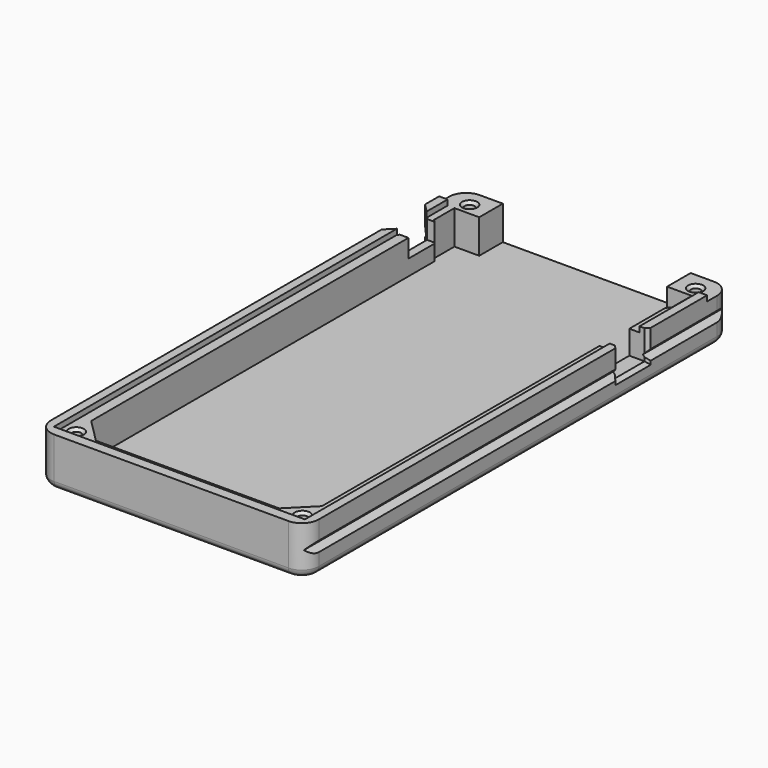
from build123d import *

# Parameters (mm, degrees)
SKETCH_W        = 79.03
SKETCH_H        = 156.85
PAD_DEPTH       = 14
POCKET_DEPTH    = 11.6
PAD001_DEPTH    = 10
SKETCH003_R     = 1.45
POCKET001_DEPTH = 12
FILLET_R        = 5
CHAMFER_SIZE    = 1
FILLET001_R     = 2
CHAMFER001_SIZE = 0.8
SKETCH004_W     = 12.65
SKETCH004_H     = 11
POCKET002_DEPTH = 8.6
SKETCH005_W     = 11.08
SKETCH005_H     = 10
POCKET003_DEPTH = 7
SKETCH006_R     = 1.45
POCKET004_DEPTH = 12
SKETCH007_W     = 92.15
SKETCH007_H     = 16.7
POCKET005_DEPTH = 1.6
CHAMFER002_SIZE = 0.8
CHAMFER003_SIZE = 3
CHAMFER004_SIZE = 1
POCKET006_DEPTH = 509.235242
SKETCH009_R     = 2.2
POCKET007_DEPTH = 2.2
CHAMFER005_SIZE = 0.5


with BuildPart() as part:
    # Sketch → Pad (new body)
    with BuildSketch(Plane.XY):
        with Locations((0, -69.725)):
            Rectangle(SKETCH_W, SKETCH_H)
    extrude(amount=PAD_DEPTH)

    # Sketch001 (on Face6 of Pad) → Pocket (cut)
    with BuildSketch(Plane.XY.offset(14)):
        Polygon((-37.015, -145.15), (37.015, -145.15), (37.015, 0), (27.7, 0), (27.7, 8.7), (-27.7, 8.7), (-27.7, 0), (-37.015, 0), align=None)
    extrude(amount=-POCKET_DEPTH, mode=Mode.SUBTRACT)

    # Sketch002 (on Face6 of Pocket) → Pad001 (join)
    with BuildSketch(Plane.XY.offset(2.4)):
        Polygon((-35.015, 0), (-35.015, -7.5), (-34.015, -8.5), (-34.015, -135.15), (-27.015, -142.15), (27.015, -142.15), (34.015, -135.15), (34.015, -8.5), (35.015, -7.5), (35.015, 0), (37.015, 0), (37.015, -145.15), (-37.015, -145.15), (-37.015, 0), align=None)
    extrude(amount=PAD001_DEPTH)

    # Sketch003 (on Face24 of Pad001) → Pocket001 (cut)
    with BuildSketch(Plane.XY.offset(12.4)):
        with Locations((-33.34, -141.47)):
            Circle(SKETCH003_R)
        with Locations((33.34, -141.47)):
            Circle(SKETCH003_R)
    extrude(amount=-POCKET001_DEPTH, mode=Mode.SUBTRACT)

    # Fillet
    fillet_edges = [part.edges().sort_by_distance(p)[0] for p in [
        (39.515, 8.7, 7),
        (39.515, -148.15, 7),
        (-39.515, 8.7, 7),
        (-39.515, -148.15, 7),
    ]]
    fillet(fillet_edges, radius=FILLET_R)

    # Chamfer
    chamfer_edges = [part.edges().sort_by_distance(p)[0] for p in [
        (-38.050534, 7.235534, 0),
    ]]
    chamfer(chamfer_edges, length=CHAMFER_SIZE)

    # Fillet001
    fillet001_edges = [part.edges().sort_by_distance(p)[0] for p in [
        (-38.050534, 7.235534, 1),
    ]]
    fillet(fillet001_edges, radius=FILLET001_R)

    # Chamfer001
    chamfer001_edges = [part.edges().sort_by_distance(p)[0] for p in [
        (-34.79, -141.47, 12.4),
        (31.89, -141.47, 12.4),
    ]]
    chamfer(chamfer001_edges, length=CHAMFER001_SIZE)

    # Sketch004 (on Face20 of Chamfer001) → Pocket002 (cut)
    with BuildSketch(Plane.XY.offset(14)):
        with Locations((37.485, -27.31)):
            Rectangle(SKETCH004_W, SKETCH004_H)
    extrude(amount=-POCKET002_DEPTH, mode=Mode.SUBTRACT)

    # Sketch005 (on Face16 of Pocket002) → Pocket003 (cut)
    with BuildSketch(Plane.XY.offset(14)):
        with Locations((-36.33, -13.2)):
            Rectangle(SKETCH005_W, SKETCH005_H)
    extrude(amount=-POCKET003_DEPTH, mode=Mode.SUBTRACT)

    # Sketch006 → Pocket004 (cut)
    with BuildSketch(Plane.XY.offset(14)):
        with Locations((-33.34, 3.5)):
            Circle(SKETCH006_R)
        with Locations((33.34, 3.5)):
            Circle(SKETCH006_R)
    extrude(amount=-POCKET004_DEPTH, mode=Mode.SUBTRACT)

    # Sketch007 (on Face7 of Pocket004) → Pocket005 (cut)
    with BuildSketch(Plane.XY.offset(14)):
        with Locations((0, 8.35)):
            Rectangle(SKETCH007_W, SKETCH007_H)
    extrude(amount=-POCKET005_DEPTH, mode=Mode.SUBTRACT)

    # Chamfer002
    chamfer002_edges = [part.edges().sort_by_distance(p)[0] for p in [
        (31.89, 3.5, 12.4),
        (-34.79, 3.5, 12.4),
    ]]
    chamfer(chamfer002_edges, length=CHAMFER002_SIZE)

    # Chamfer003
    chamfer003_edges = [part.edges().sort_by_distance(p)[0] for p in [
        (-39.515, -8.2, 10.5),
        (-39.515, -13.2, 7),
        (-39.515, -18.2, 10.5),
    ]]
    chamfer(chamfer003_edges, length=CHAMFER003_SIZE)

    # Chamfer004
    chamfer004_edges = [part.edges().sort_by_distance(p)[0] for p in [
        (39.515, -21.81, 9.7),
        (39.515, -27.31, 5.4),
        (39.515, -32.81, 9.7),
    ]]
    chamfer(chamfer004_edges, length=CHAMFER004_SIZE)

    # Sketch008 (on Face9 of Chamfer004) → Pocket006 (cut, through all)
    with BuildSketch(Plane.XZ.offset(148.15)):
        Polygon((-43, 12), (-43, 2), (-38, 7), align=None)
    pocket006 = extrude(amount=-POCKET006_DEPTH, mode=Mode.SUBTRACT)

    # Mirrored: Pocket006 across Sketch008 V_Axis
    add(pocket006.mirror(Plane(origin=(0, -148.15, 0), x_dir=(0, -1, 0), z_dir=(1, 0, 0))), mode=Mode.SUBTRACT)

    # Sketch009 (on Face56 of Mirrored) → Pocket007 (cut)
    with BuildSketch(Plane(origin=(0, 8.7, 0), x_dir=(-1, 0, 0), z_dir=(0, 1, 0))):
        with Locations((-31, 7)):
            Circle(SKETCH009_R)
    pocket007 = extrude(amount=-POCKET007_DEPTH, mode=Mode.SUBTRACT)

    # Mirrored001: Pocket007 across Sketch009 V_Axis
    add(pocket007.mirror(Plane(origin=(0, 8.7, 0), x_dir=(0, 1, 0), z_dir=(-1, 0, 0))), mode=Mode.SUBTRACT)

    # Chamfer005
    chamfer005_edges = [part.edges().sort_by_distance(p)[0] for p in [
        (33.2, 8.7, 7),
        (-33.2, 8.7, 7),
    ]]
    chamfer(chamfer005_edges, length=CHAMFER005_SIZE)


solid = part.part
